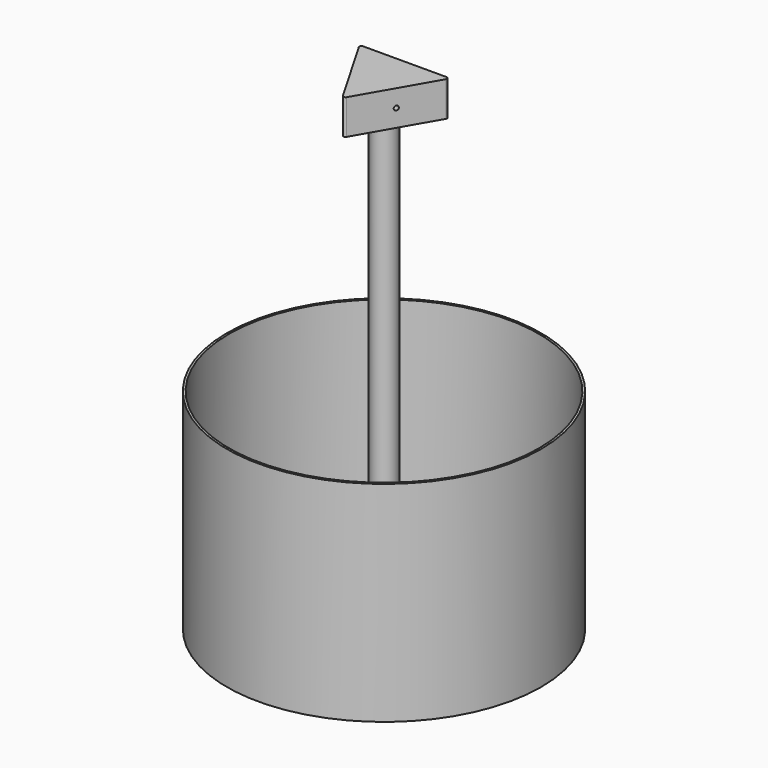
from build123d import *

# Parameters (mm, degrees)
F1_DEPTH  = 50.8
F2_R      = 3.175
F3_DEPTH  = 25.4
F5_R      = 3.175
F6_DEPTH  = 25.4
F4_R      = 3.175
F7_DEPTH  = 25.4
F8_R      = 17.4625
F9_DEPTH  = 508
F10_R     = 228.6
F10_R_2   = 225.425
F11_DEPTH = 152.4
F12_R     = 3.175


with BuildPart() as f1:
    # F0 (on Top) → F1 (new body)
    with BuildSketch(Plane.XY):
        Polygon((0.1212541357, -76.1999035264), (65.930425152, 38.204960925), (-66.0516792876, 37.9949426014), align=None)
    extrude(amount=F1_DEPTH)

    # F2 (on face) → F3 (cut)
    with BuildSketch(Plane(origin=(33.0258396438, -18.9974713007, 0), x_dir=(0.498621294, 0.8668199382, 0), z_dir=(0.8668199382, -0.498621294, 0))):
        with Locations((0, 25.4)):
            Circle(F2_R)
    extrude(amount=-F3_DEPTH, mode=Mode.SUBTRACT)

    # F5 (on face) → F6 (cut)
    with BuildSketch(Plane(origin=(-32.965212576, -19.1024804625, 0), x_dir=(0.50137744, -0.8652286765, 0), z_dir=(-0.8652286765, -0.50137744, 0))):
        with Locations((0, 25.4)):
            Circle(F5_R)
    extrude(amount=-F6_DEPTH, mode=Mode.SUBTRACT)

    # F4 (on face) → F7 (cut)
    with BuildSketch(Plane(origin=(-0.0606270678, 38.0999517632, 0), x_dir=(-0.9999987339, -0.0015912616, 0), z_dir=(-0.0015912616, 0.9999987339, 0))):
        with Locations((0, 25.4)):
            Circle(F4_R)
    extrude(amount=-F7_DEPTH, mode=Mode.SUBTRACT)

    # F8 (on face) → F9 (join)
    with BuildSketch(Plane(origin=(0, 0, 0), x_dir=(1, 0, 0), z_dir=(0, 0, -1))):
        Circle(F8_R)
    extrude(amount=F9_DEPTH)

    # F12
    f12_edges = [f1.edges().sort_by_distance(p)[0] for p in [
        (65.930425, 38.204961, 25.4),
        (0.121254, -76.199904, 25.4),
        (-66.051679, 37.994943, 25.4),
    ]]
    fillet(f12_edges, radius=F12_R)


with BuildPart() as f11:
    # F10 (on face) → F11 (new body, symmetric)
    with BuildSketch(Plane(origin=(0, 0, -508), x_dir=(1, 0, 0), z_dir=(0, 0, -1))):
        Circle(F10_R)
        Circle(F10_R_2, mode=Mode.SUBTRACT)
    extrude(amount=F11_DEPTH, both=True)


solid = Compound([f1.part, f11.part])
